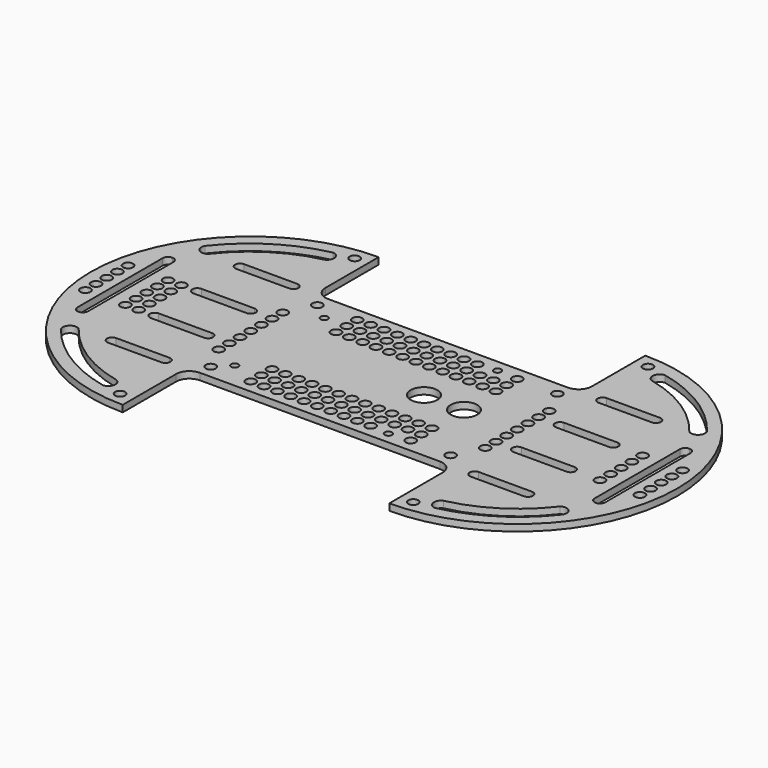
from build123d import *

# Parameters (mm, degrees)
F0_R     = 2.38125
F0_R_2   = 1.75
F0_R_3   = 6.35
F1_DEPTH = 3.175


with BuildPart() as f1:
    # F0 (on Top) → F1 (new body)
    with BuildSketch(Plane.XY):
        with BuildLine():
            Line((57.15, 38.1), (-57.15, 38.1))
            ThreePointArc((-57.15, 38.1), (-61.640128, 39.959872), (-63.5, 44.45))
            Line((-63.5, 44.45), (-63.5, 76.2))
            ThreePointArc((-63.5, 76.2), (-139.7, 0), (-63.5, -76.2))
            Line((-63.5, -76.2), (-63.5, -44.45))
            ThreePointArc((-63.5, -44.45), (-61.640128, -39.959872), (-57.15, -38.1))
            Line((-57.15, -38.1), (57.15, -38.1))
            ThreePointArc((57.15, -38.1), (61.640128, -39.959872), (63.5, -44.45))
            Line((63.5, -44.45), (63.5, -76.2))
            ThreePointArc((63.5, -76.2), (139.7, 0), (63.5, 76.2))
            Line((63.5, 76.2), (63.5, 44.45))
            ThreePointArc((63.5, 44.45), (61.640128, 39.959872), (57.15, 38.1))
        make_face()
        with BuildLine():
            ThreePointArc((-77.927133, -61.991514), (-75.936798, -65.698192), (-79.100708, -68.471378))
            ThreePointArc((-79.100708, -68.471378), (-101.593537, -59.250852), (-119.583243, -42.901053))
            ThreePointArc((-119.583243, -42.901053), (-118.891582, -38.756749), (-114.700869, -38.454151))
            ThreePointArc((-114.700869, -38.454151), (-98.400572, -53.482799), (-77.927133, -61.991514))
        make_face(mode=Mode.SUBTRACT)
        with Locations((-69.85, -69.85)):
            Circle(F0_R, mode=Mode.SUBTRACT)
        with BuildLine():
            Line((-99.06, -35.71875), (-73.66, -35.71875))
            ThreePointArc((-73.66, -35.71875), (-71.27875, -38.1), (-73.66, -40.48125))
            Line((-73.66, -40.48125), (-99.06, -40.48125))
            ThreePointArc((-99.06, -40.48125), (-101.44125, -38.1), (-99.06, -35.71875))
        make_face(mode=Mode.SUBTRACT)
        with Locations((-132.08, -12.7)):
            Circle(F0_R, mode=Mode.SUBTRACT)
        with Locations((-113.03, -12.7)):
            Circle(F0_R, mode=Mode.SUBTRACT)
        with Locations((-106.68, -12.7)):
            Circle(F0_R, mode=Mode.SUBTRACT)
        with Locations((-132.08, -6.35)):
            Circle(F0_R, mode=Mode.SUBTRACT)
        with Locations((-113.03, -6.35)):
            Circle(F0_R, mode=Mode.SUBTRACT)
        with Locations((-106.68, -6.35)):
            Circle(F0_R, mode=Mode.SUBTRACT)
        with BuildLine():
            ThreePointArc((-73.66, -10.31875), (-71.27875, -12.7), (-73.66, -15.08125))
            Line((-73.66, -15.08125), (-99.06, -15.08125))
            ThreePointArc((-99.06, -15.08125), (-101.44125, -12.7), (-99.06, -10.31875))
            Line((-99.06, -10.31875), (-73.66, -10.31875))
        make_face(mode=Mode.SUBTRACT)
        with Locations((-57.15, -31.75)):
            Circle(F0_R, mode=Mode.SUBTRACT)
        with Locations((-38.1, -31.75)):
            Circle(F0_R, mode=Mode.SUBTRACT)
        with Locations((-50.8, -25.4)):
            Circle(F0_R_2, mode=Mode.SUBTRACT)
        with Locations((-38.1, -25.4)):
            Circle(F0_R, mode=Mode.SUBTRACT)
        with Locations((-31.75, -31.75)):
            Circle(F0_R, mode=Mode.SUBTRACT)
        with Locations((-25.4, -31.75)):
            Circle(F0_R, mode=Mode.SUBTRACT)
        with Locations((-19.05, -31.75)):
            Circle(F0_R, mode=Mode.SUBTRACT)
        with Locations((-12.7, -31.75)):
            Circle(F0_R, mode=Mode.SUBTRACT)
        with Locations((-6.35, -31.75)):
            Circle(F0_R, mode=Mode.SUBTRACT)
        with Locations((-31.75, -25.4)):
            Circle(F0_R, mode=Mode.SUBTRACT)
        with Locations((-25.4, -25.4)):
            Circle(F0_R, mode=Mode.SUBTRACT)
        with Locations((-19.05, -25.4)):
            Circle(F0_R, mode=Mode.SUBTRACT)
        with Locations((-12.7, -25.4)):
            Circle(F0_R, mode=Mode.SUBTRACT)
        with Locations((-6.35, -25.4)):
            Circle(F0_R, mode=Mode.SUBTRACT)
        with Locations((-63.5, -19.05)):
            Circle(F0_R, mode=Mode.SUBTRACT)
        with Locations((-63.5, -12.7)):
            Circle(F0_R, mode=Mode.SUBTRACT)
        with Locations((-38.1, -19.05)):
            Circle(F0_R, mode=Mode.SUBTRACT)
        with Locations((-63.5, -6.35)):
            Circle(F0_R, mode=Mode.SUBTRACT)
        with Locations((-31.75, -19.05)):
            Circle(F0_R, mode=Mode.SUBTRACT)
        with Locations((-25.4, -19.05)):
            Circle(F0_R, mode=Mode.SUBTRACT)
        with Locations((-19.05, -19.05)):
            Circle(F0_R, mode=Mode.SUBTRACT)
        with Locations((-12.7, -19.05)):
            Circle(F0_R, mode=Mode.SUBTRACT)
        with Locations((-6.35, -19.05)):
            Circle(F0_R, mode=Mode.SUBTRACT)
        with Locations((69.85, -69.85)):
            Circle(F0_R, mode=Mode.SUBTRACT)
        with BuildLine():
            ThreePointArc((119.583243, -42.901053), (101.593537, -59.250852), (79.100708, -68.471378))
            ThreePointArc((79.100708, -68.471378), (75.936798, -65.698192), (77.927133, -61.991514))
            ThreePointArc((77.927133, -61.991514), (98.400572, -53.482799), (114.700869, -38.454151))
            ThreePointArc((114.700869, -38.454151), (118.891582, -38.756749), (119.583243, -42.901053))
        make_face(mode=Mode.SUBTRACT)
        with Locations((0, -31.75)):
            Circle(F0_R, mode=Mode.SUBTRACT)
        with Locations((6.35, -31.75)):
            Circle(F0_R, mode=Mode.SUBTRACT)
        with Locations((12.7, -31.75)):
            Circle(F0_R, mode=Mode.SUBTRACT)
        with Locations((19.05, -31.75)):
            Circle(F0_R, mode=Mode.SUBTRACT)
        with Locations((28.158, -32.583)):
            Circle(F0_R_2, mode=Mode.SUBTRACT)
        with Locations((0, -25.4)):
            Circle(F0_R, mode=Mode.SUBTRACT)
        with Locations((6.35, -25.4)):
            Circle(F0_R, mode=Mode.SUBTRACT)
        with Locations((12.7, -25.4)):
            Circle(F0_R, mode=Mode.SUBTRACT)
        with Locations((19.05, -25.4)):
            Circle(F0_R, mode=Mode.SUBTRACT)
        with Locations((25.4, -25.4)):
            Circle(F0_R, mode=Mode.SUBTRACT)
        with Locations((31.75, -25.4)):
            Circle(F0_R, mode=Mode.SUBTRACT)
        with Locations((38.1, -31.75)):
            Circle(F0_R, mode=Mode.SUBTRACT)
        with Locations((57.15, -31.75)):
            Circle(F0_R, mode=Mode.SUBTRACT)
        with Locations((38.1, -25.4)):
            Circle(F0_R, mode=Mode.SUBTRACT)
        with Locations((0, -19.05)):
            Circle(F0_R, mode=Mode.SUBTRACT)
        with Locations((6.35, -19.05)):
            Circle(F0_R, mode=Mode.SUBTRACT)
        with Locations((12.7, -19.05)):
            Circle(F0_R, mode=Mode.SUBTRACT)
        with Locations((19.05, -19.05)):
            Circle(F0_R, mode=Mode.SUBTRACT)
        with Locations((25.4, -19.05)):
            Circle(F0_R, mode=Mode.SUBTRACT)
        with Locations((31.75, -19.05)):
            Circle(F0_R, mode=Mode.SUBTRACT)
        with Locations((38.1, -19.05)):
            Circle(F0_R, mode=Mode.SUBTRACT)
        with Locations((63.5, -19.05)):
            Circle(F0_R, mode=Mode.SUBTRACT)
        with Locations((63.5, -12.7)):
            Circle(F0_R, mode=Mode.SUBTRACT)
        with Locations((63.5, -6.35)):
            Circle(F0_R, mode=Mode.SUBTRACT)
        with BuildLine():
            ThreePointArc((73.66, -40.48125), (71.27875, -38.1), (73.66, -35.71875))
            Line((73.66, -35.71875), (99.06, -35.71875))
            ThreePointArc((99.06, -35.71875), (101.44125, -38.1), (99.06, -40.48125))
            Line((99.06, -40.48125), (73.66, -40.48125))
        make_face(mode=Mode.SUBTRACT)
        with BuildLine():
            ThreePointArc((73.66, -15.08125), (71.27875, -12.7), (73.66, -10.31875))
            Line((73.66, -10.31875), (99.06, -10.31875))
            ThreePointArc((99.06, -10.31875), (101.44125, -12.7), (99.06, -15.08125))
            Line((99.06, -15.08125), (73.66, -15.08125))
        make_face(mode=Mode.SUBTRACT)
        with Locations((113.03, -12.7)):
            Circle(F0_R, mode=Mode.SUBTRACT)
        with Locations((132.08, -12.7)):
            Circle(F0_R, mode=Mode.SUBTRACT)
        with Locations((113.03, -6.35)):
            Circle(F0_R, mode=Mode.SUBTRACT)
        with Locations((132.08, -6.35)):
            Circle(F0_R, mode=Mode.SUBTRACT)
        with Locations((-132.08, 0)):
            Circle(F0_R, mode=Mode.SUBTRACT)
        with BuildLine():
            Line((-125.73, -25.4), (-125.73, 25.4))
            ThreePointArc((-125.73, 25.4), (-124.986051, 27.196051), (-123.19, 27.94))
            ThreePointArc((-123.19, 27.94), (-121.393949, 27.196051), (-120.65, 25.4))
            Line((-120.65, 25.4), (-120.65, -25.4))
            ThreePointArc((-120.65, -25.4), (-121.393949, -27.196051), (-123.19, -27.94))
            ThreePointArc((-123.19, -27.94), (-124.986051, -27.196051), (-125.73, -25.4))
        make_face(mode=Mode.SUBTRACT)
        with Locations((-132.08, 6.35)):
            Circle(F0_R, mode=Mode.SUBTRACT)
        with Locations((-113.03, 0)):
            Circle(F0_R, mode=Mode.SUBTRACT)
        with Locations((-106.68, 0)):
            Circle(F0_R, mode=Mode.SUBTRACT)
        with Locations((-113.03, 6.35)):
            Circle(F0_R, mode=Mode.SUBTRACT)
        with Locations((-106.68, 6.35)):
            Circle(F0_R, mode=Mode.SUBTRACT)
        with Locations((-132.08, 12.7)):
            Circle(F0_R, mode=Mode.SUBTRACT)
        with Locations((-113.03, 12.7)):
            Circle(F0_R, mode=Mode.SUBTRACT)
        with Locations((-106.68, 12.7)):
            Circle(F0_R, mode=Mode.SUBTRACT)
        with BuildLine():
            ThreePointArc((-99.06, 10.31875), (-101.44125, 12.7), (-99.06, 15.08125))
            Line((-99.06, 15.08125), (-73.66, 15.08125))
            ThreePointArc((-73.66, 15.08125), (-71.27875, 12.7), (-73.66, 10.31875))
            Line((-73.66, 10.31875), (-99.06, 10.31875))
        make_face(mode=Mode.SUBTRACT)
        with Locations((-63.5, 0)):
            Circle(F0_R, mode=Mode.SUBTRACT)
        with Locations((-63.5, 6.35)):
            Circle(F0_R, mode=Mode.SUBTRACT)
        with Locations((-63.5, 12.7)):
            Circle(F0_R, mode=Mode.SUBTRACT)
        with Locations((-63.5, 19.05)):
            Circle(F0_R, mode=Mode.SUBTRACT)
        with Locations((-38.099999, 19.05)):
            Circle(F0_R, mode=Mode.SUBTRACT)
        with Locations((-48.651278, 25.234)):
            Circle(F0_R_2, mode=Mode.SUBTRACT)
        with Locations((-38.1, 25.4)):
            Circle(F0_R, mode=Mode.SUBTRACT)
        with Locations((-57.15, 31.75)):
            Circle(F0_R, mode=Mode.SUBTRACT)
        with Locations((-38.1, 31.75)):
            Circle(F0_R, mode=Mode.SUBTRACT)
        with Locations((-31.749999, 19.05)):
            Circle(F0_R, mode=Mode.SUBTRACT)
        with Locations((-25.399999, 19.05)):
            Circle(F0_R, mode=Mode.SUBTRACT)
        with Locations((-19.049999, 19.05)):
            Circle(F0_R, mode=Mode.SUBTRACT)
        with Locations((-31.75, 25.4)):
            Circle(F0_R, mode=Mode.SUBTRACT)
        with Locations((-25.4, 25.4)):
            Circle(F0_R, mode=Mode.SUBTRACT)
        with Locations((-19.05, 25.4)):
            Circle(F0_R, mode=Mode.SUBTRACT)
        with Locations((-12.699999, 19.05)):
            Circle(F0_R, mode=Mode.SUBTRACT)
        with Locations((-6.349999, 19.05)):
            Circle(F0_R, mode=Mode.SUBTRACT)
        with Locations((-12.7, 25.4)):
            Circle(F0_R, mode=Mode.SUBTRACT)
        with Locations((-6.35, 25.4)):
            Circle(F0_R, mode=Mode.SUBTRACT)
        with Locations((-31.75, 31.75)):
            Circle(F0_R, mode=Mode.SUBTRACT)
        with Locations((-25.4, 31.75)):
            Circle(F0_R, mode=Mode.SUBTRACT)
        with Locations((-19.05, 31.75)):
            Circle(F0_R, mode=Mode.SUBTRACT)
        with Locations((-12.7, 31.75)):
            Circle(F0_R, mode=Mode.SUBTRACT)
        with Locations((-6.35, 31.75)):
            Circle(F0_R, mode=Mode.SUBTRACT)
        with BuildLine():
            Line((-99.06, 40.48125), (-73.66, 40.48125))
            ThreePointArc((-73.66, 40.48125), (-71.27875, 38.1), (-73.66, 35.71875))
            Line((-73.66, 35.71875), (-99.06, 35.71875))
            ThreePointArc((-99.06, 35.71875), (-101.44125, 38.1), (-99.06, 40.48125))
        make_face(mode=Mode.SUBTRACT)
        with BuildLine():
            ThreePointArc((-119.583243, 42.901053), (-101.593537, 59.250852), (-79.100708, 68.471378))
            ThreePointArc((-79.100708, 68.471378), (-75.936798, 65.698192), (-77.927133, 61.991514))
            ThreePointArc((-77.927133, 61.991514), (-98.400572, 53.482799), (-114.700869, 38.454151))
            ThreePointArc((-114.700869, 38.454151), (-118.891582, 38.756749), (-119.583243, 42.901053))
        make_face(mode=Mode.SUBTRACT)
        with Locations((-69.85, 69.85)):
            Circle(F0_R, mode=Mode.SUBTRACT)
        with Locations((19.05, 0)):
            Circle(F0_R_3, mode=Mode.SUBTRACT)
        with Locations((38.1, 0)):
            Circle(F0_R_3, mode=Mode.SUBTRACT)
        with Locations((63.5, 0)):
            Circle(F0_R, mode=Mode.SUBTRACT)
        with Locations((63.5, 6.35)):
            Circle(F0_R, mode=Mode.SUBTRACT)
        with Locations((63.5, 12.7)):
            Circle(F0_R, mode=Mode.SUBTRACT)
        with Locations((1e-06, 19.05)):
            Circle(F0_R, mode=Mode.SUBTRACT)
        with Locations((6.350001, 19.05)):
            Circle(F0_R, mode=Mode.SUBTRACT)
        with Locations((12.700001, 19.05)):
            Circle(F0_R, mode=Mode.SUBTRACT)
        with Locations((0, 25.4)):
            Circle(F0_R, mode=Mode.SUBTRACT)
        with Locations((6.35, 25.4)):
            Circle(F0_R, mode=Mode.SUBTRACT)
        with Locations((12.7, 25.4)):
            Circle(F0_R, mode=Mode.SUBTRACT)
        with Locations((19.050001, 19.05)):
            Circle(F0_R, mode=Mode.SUBTRACT)
        with Locations((25.400001, 19.05)):
            Circle(F0_R, mode=Mode.SUBTRACT)
        with Locations((31.750001, 19.05)):
            Circle(F0_R, mode=Mode.SUBTRACT)
        with Locations((19.05, 25.4)):
            Circle(F0_R, mode=Mode.SUBTRACT)
        with Locations((25.4, 25.4)):
            Circle(F0_R, mode=Mode.SUBTRACT)
        with Locations((31.75, 25.4)):
            Circle(F0_R, mode=Mode.SUBTRACT)
        with Locations((0, 31.75)):
            Circle(F0_R, mode=Mode.SUBTRACT)
        with Locations((6.35, 31.75)):
            Circle(F0_R, mode=Mode.SUBTRACT)
        with Locations((12.7, 31.75)):
            Circle(F0_R, mode=Mode.SUBTRACT)
        with Locations((19.05, 31.75)):
            Circle(F0_R, mode=Mode.SUBTRACT)
        with Locations((28.158, 32.417)):
            Circle(F0_R_2, mode=Mode.SUBTRACT)
        with Locations((38.100001, 19.05)):
            Circle(F0_R, mode=Mode.SUBTRACT)
        with Locations((38.1, 25.4)):
            Circle(F0_R, mode=Mode.SUBTRACT)
        with Locations((63.5, 19.05)):
            Circle(F0_R, mode=Mode.SUBTRACT)
        with Locations((38.1, 31.75)):
            Circle(F0_R, mode=Mode.SUBTRACT)
        with Locations((57.15, 31.75)):
            Circle(F0_R, mode=Mode.SUBTRACT)
        with BuildLine():
            ThreePointArc((73.66, 10.31875), (71.27875, 12.7), (73.66, 15.08125))
            Line((73.66, 15.08125), (99.06, 15.08125))
            ThreePointArc((99.06, 15.08125), (101.44125, 12.7), (99.06, 10.31875))
            Line((99.06, 10.31875), (73.66, 10.31875))
        make_face(mode=Mode.SUBTRACT)
        with Locations((113.03, 0)):
            Circle(F0_R, mode=Mode.SUBTRACT)
        with Locations((113.03, 6.35)):
            Circle(F0_R, mode=Mode.SUBTRACT)
        with BuildLine():
            ThreePointArc((120.65, 25.4), (121.393949, 27.196051), (123.19, 27.94))
            ThreePointArc((123.19, 27.94), (124.986051, 27.196051), (125.73, 25.4))
            Line((125.73, 25.4), (125.73, -25.4))
            ThreePointArc((125.73, -25.4), (124.986051, -27.196051), (123.19, -27.94))
            ThreePointArc((123.19, -27.94), (121.393949, -27.196051), (120.65, -25.4))
            Line((120.65, -25.4), (120.65, 25.4))
        make_face(mode=Mode.SUBTRACT)
        with Locations((132.08, 0)):
            Circle(F0_R, mode=Mode.SUBTRACT)
        with Locations((132.08, 6.35)):
            Circle(F0_R, mode=Mode.SUBTRACT)
        with Locations((113.03, 12.7)):
            Circle(F0_R, mode=Mode.SUBTRACT)
        with Locations((132.08, 12.7)):
            Circle(F0_R, mode=Mode.SUBTRACT)
        with BuildLine():
            ThreePointArc((73.66, 35.71875), (71.27875, 38.1), (73.66, 40.48125))
            Line((73.66, 40.48125), (99.06, 40.48125))
            ThreePointArc((99.06, 40.48125), (101.44125, 38.1), (99.06, 35.71875))
            Line((99.06, 35.71875), (73.66, 35.71875))
        make_face(mode=Mode.SUBTRACT)
        with BuildLine():
            ThreePointArc((119.583243, 42.901053), (118.891582, 38.756749), (114.700869, 38.454151))
            ThreePointArc((114.700869, 38.454151), (98.400572, 53.482799), (77.927133, 61.991514))
            ThreePointArc((77.927133, 61.991514), (75.936798, 65.698192), (79.100708, 68.471378))
            ThreePointArc((79.100708, 68.471378), (101.593537, 59.250852), (119.583243, 42.901053))
        make_face(mode=Mode.SUBTRACT)
        with Locations((69.85, 69.85)):
            Circle(F0_R, mode=Mode.SUBTRACT)
    extrude(amount=F1_DEPTH)


solid = f1.part
